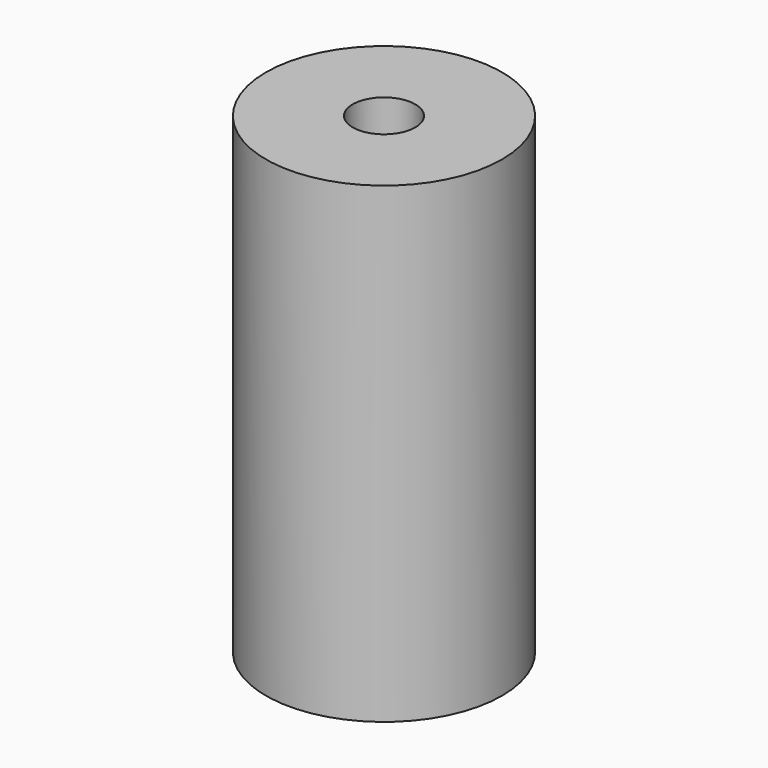
from build123d import *

# Parameters (mm, degrees)
SKETCH002_R   = 10
SKETCH002_R_2 = 2.65
PAD002_DEPTH  = 40
PAD003_DEPTH  = 20
CHAMFER_SIZE  = 0.5


with BuildPart() as part:
    # Sketch002 → Pad002 (new body)
    with BuildSketch(Plane.XY):
        Circle(SKETCH002_R)
        Circle(SKETCH002_R_2, mode=Mode.SUBTRACT)
    extrude(amount=PAD002_DEPTH)

    # Sketch003 (on Face3 of Pad002) → Pad003 (join)
    with BuildSketch(Plane(origin=(0, 0, 5), x_dir=(1, 0, 0), z_dir=(0, 0, -1))):
        Polygon((-1.679286, 2.65), (-1.679286, 2.05), (1.679286, 2.05), (1.679286, 2.65), (0, 2.65), align=None)
    extrude(amount=-PAD003_DEPTH)

    # Chamfer
    chamfer_edges = [part.edges().sort_by_distance(p)[0] for p in [
        (0, -2.05, 5),
    ]]
    chamfer(chamfer_edges, length=CHAMFER_SIZE)


solid = part.part
